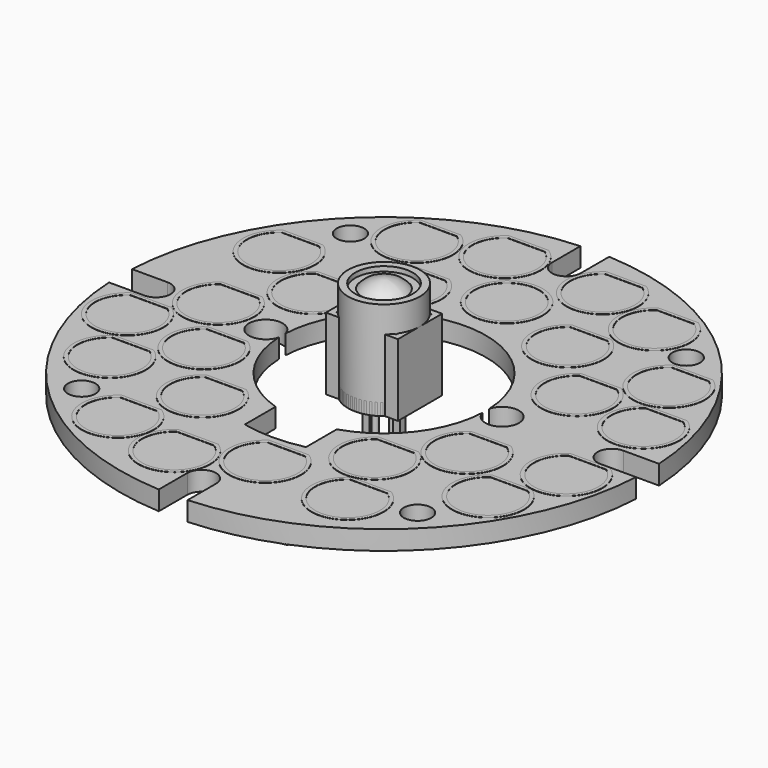
from build123d import *

# Parameters (mm, degrees)
SKETCH_R          = 1.15
PAD_DEPTH         = 1.6
SKETCH001_W       = 4.396296
SKETCH001_H       = 1.855046
SKETCH001_W_2     = 3.996296
SKETCH001_H_2     = 1.455046
SKETCH001_W_3     = 4.588945
SKETCH001_H_3     = 2.181592
SKETCH001_W_4     = 4.188945
SKETCH001_H_4     = 1.781592
SKETCH001_W_5     = 2.480232
SKETCH001_H_5     = 4.551493
SKETCH001_W_6     = 2.080232
SKETCH001_H_6     = 4.151493
SKETCH001_W_7     = 2.034836
SKETCH001_H_7     = 4.348453
SKETCH001_W_8     = 1.634836
SKETCH001_H_8     = 3.948453
SKETCH001_W_9     = 4.626051
SKETCH001_H_9     = 2.828629
SKETCH001_W_10    = 4.226051
SKETCH001_H_10    = 2.428629
SKETCH001_W_11    = 2.947165
SKETCH001_H_11    = 1.699949
SKETCH001_W_12    = 2.547165
SKETCH001_H_12    = 1.299949
PAD001_DEPTH      = 0.02
SKETCH002_R       = 3
SKETCH002_R_2     = 2.7
PAD002_DEPTH      = 0.02
SKETCH004_W       = 2
SKETCH004_H       = 6
POCKET_DEPTH      = 8.601
SKETCH005_W       = 0.6
SKETCH005_H       = 0.6
PAD003_DEPTH      = 3.8
SKETCH007_R       = 0.25
PAD004_DEPTH      = 3.8
SKETCH008_W       = 2
SKETCH008_H       = 1.25
PAD005_DEPTH      = 0.7
SKETCH009_W       = 3.2
SKETCH009_H       = 1.6
PAD006_DEPTH      = 0.7
SKETCH010_W       = 4.55
SKETCH010_H       = 2.5
PAD007_DEPTH      = 1.6
SKETCH011_W       = 3
SKETCH011_H       = 1.3
PAD008_DEPTH      = 0.9
SKETCH012_W       = 6
SKETCH012_H       = 4.6
PAD009_DEPTH      = 6
SKETCH013_W       = 5
SKETCH013_H       = 3.7
POCKET001_DEPTH   = 5
SKETCH014_W       = 0.5
SKETCH014_H       = 0.5
PAD010_DEPTH      = 5
PAD010_DEPTH_BACK = 3.5
SKETCH015_W       = 4.5
SKETCH015_H       = 3.8
PAD011_DEPTH      = 4.5
SKETCH016_W       = 3.7
SKETCH016_H       = 3
POCKET002_DEPTH   = 3.9
SKETCH017_R       = 0.25
PAD012_DEPTH      = 3.5
PAD012_DEPTH_BACK = 3.5


with BuildPart() as pcb:
    # Sketch → Pad (new body)
    with BuildSketch(Plane.XY):
        with BuildLine():
            ThreePointArc((21.967248, 1.2), (15.556349, 15.556349), (1.2, 21.967248))
            Line((1.2, 19), (1.2, 21.967248))
            ThreePointArc((-1.2, 19), (0, 17.8), (1.2, 19))
            Line((-1.2, 21.967248), (-1.2, 19))
            ThreePointArc((-1.2, 21.967248), (-15.556349, 15.556349), (-21.967248, 1.2))
            Line((-21.967248, 1.2), (-19, 1.2))
            ThreePointArc((-19, -1.2), (-17.8, 0), (-19, 1.2))
            Line((-19, -1.2), (-21.967248, -1.2))
            ThreePointArc((-21.967248, -1.2), (-15.556349, -15.556349), (-1.2, -21.967248))
            Line((-1.2, -21.967248), (-1.2, -19))
            ThreePointArc((1.2, -19), (0, -17.8), (-1.2, -19))
            Line((1.2, -19), (1.2, -21.967248))
            ThreePointArc((1.2, -21.967248), (15.556349, -15.556349), (21.967248, -1.2))
            Line((19, -1.2), (21.967248, -1.2))
            ThreePointArc((19, 1.2), (17.8, 0), (19, -1.2))
            Line((21.967248, 1.2), (19, 1.2))
        make_face()
        with Locations((14, 14)):
            Circle(SKETCH_R, mode=Mode.SUBTRACT)
        with Locations((-14, 14)):
            Circle(SKETCH_R, mode=Mode.SUBTRACT)
        with Locations((-14, -14)):
            Circle(SKETCH_R, mode=Mode.SUBTRACT)
        with Locations((14, -14)):
            Circle(SKETCH_R, mode=Mode.SUBTRACT)
        with BuildLine():
            ThreePointArc((2.55, -8.108483), (6.749619, -5.166493), (8.49302, -0.344392))
            ThreePointArc((8.49302, -0.344392), (11.25, 0), (8.49302, 0.344392))
            ThreePointArc((8.49302, 0.344392), (0, 8.5), (-8.49302, 0.344392))
            ThreePointArc((-8.49302, 0.344392), (-11.25, 0), (-8.49302, -0.344392))
            ThreePointArc((-8.49302, -0.344392), (-6.749619, -5.166493), (-2.55, -8.108483))
            Line((-2.55, -11.316249), (-2.55, -8.108483))
            ThreePointArc((-2.55, -11.316249), (0, -11.6), (2.55, -11.316249))
            Line((2.55, -11.316249), (2.55, -8.108483))
        make_face(mode=Mode.SUBTRACT)
    extrude(amount=PAD_DEPTH)

    # Sketch001 → Pad001 (join)
    with BuildSketch(Plane(origin=(0, 0, 0), x_dir=(-1, 0, 0), z_dir=(0, 0, -1))):
        with Locations((0.286577, 16.038799)):
            Rectangle(SKETCH001_W, SKETCH001_H)
        with Locations((0.286577, 16.038799)):
            Rectangle(SKETCH001_W_2, SKETCH001_H_2, mode=Mode.SUBTRACT)
        with Locations((11.456881, -9.813305)):
            Rectangle(SKETCH001_W_3, SKETCH001_H_3)
        with Locations((11.456881, -9.813305)):
            Rectangle(SKETCH001_W_4, SKETCH001_H_4, mode=Mode.SUBTRACT)
        with Locations((-11.09168, -10.643476)):
            Rectangle(SKETCH001_W_3, SKETCH001_H_3)
        with Locations((-11.09168, -10.643476)):
            Rectangle(SKETCH001_W_4, SKETCH001_H_4, mode=Mode.SUBTRACT)
        with Locations((-5.309897, -14.41509)):
            Rectangle(SKETCH001_W_3, SKETCH001_H_3)
        with Locations((-5.309897, -14.41509)):
            Rectangle(SKETCH001_W_4, SKETCH001_H_4, mode=Mode.SUBTRACT)
        with Locations((6.973172, -16.658799)):
            Rectangle(SKETCH001_W_5, SKETCH001_H_5)
        with Locations((6.973172, -16.6588)):
            Rectangle(SKETCH001_W_6, SKETCH001_H_6, mode=Mode.SUBTRACT)
        with Locations((-14.783461, 5.644056)):
            Rectangle(SKETCH001_W_7, SKETCH001_H_7)
        with Locations((-14.783461, 5.644056)):
            Rectangle(SKETCH001_W_8, SKETCH001_H_8, mode=Mode.SUBTRACT)
        with Locations((-14.119951, 0.332207)):
            Rectangle(SKETCH001_W_9, SKETCH001_H_9)
        with Locations((-14.119951, 0.332207)):
            Rectangle(SKETCH001_W_10, SKETCH001_H_10, mode=Mode.SUBTRACT)
        with Locations((-14.39341, -5.2375)):
            Rectangle(SKETCH001_W_11, SKETCH001_H_11)
        with Locations((-14.393409, -5.2375)):
            Rectangle(SKETCH001_W_12, SKETCH001_H_12, mode=Mode.SUBTRACT)
        Polygon((-13.685606, 12.266267), (-11.262953, 13.709595), (-8.136082, 8.461084), (-10.558734, 7.017756), align=None)
        Polygon((-11.332409, 13.435412), (-8.410264, 8.530539), (-10.489279, 7.291938), (-13.411424, 12.196811), align=None, mode=Mode.SUBTRACT)
        Polygon((16.553494, 6.175916), (20.236398, 7.111979), (21.320261, 2.847563), (17.637356, 1.9115), align=None)
        Polygon((20.091828, 6.868875), (21.077157, 2.992134), (17.781927, 2.154604), (16.796597, 6.031345), align=None, mode=Mode.SUBTRACT)
        Polygon((-7.429454, -16.00829), (-1.551928, -17.214393), (-2.456506, -21.622538), (-8.334032, -20.416435), align=None)
        Polygon((-1.788049, -17.370107), (-2.61222, -21.386417), (-8.097911, -20.260721), (-7.27374, -16.244411), align=None, mode=Mode.SUBTRACT)
    extrude(amount=PAD001_DEPTH)

    # Sketch002 → Pad002 (join)
    with BuildSketch(Plane.XY.offset(1.6)):
        with Locations((0, 12.792821)):
            Circle(SKETCH002_R)
        with Locations((0, 12.792821)):
            Circle(SKETCH002_R_2, mode=Mode.SUBTRACT)
        with BuildLine():
            ThreePointArc((-5.728671, 20.178429), (-4.070359, 14.678429), (-2.412047, 20.178429))
            Line((-5.728671, 20.178429), (-2.412047, 20.178429))
        make_face()
        with BuildLine():
            ThreePointArc((-5.635607, 19.878429), (-4.070359, 14.978429), (-2.505111, 19.878429))
            Line((-5.635607, 19.878429), (-2.505111, 19.878429))
        make_face(mode=Mode.SUBTRACT)
        with BuildLine():
            ThreePointArc((2.412047, 20.178429), (4.070359, 14.678429), (5.728671, 20.178429))
            Line((2.412047, 20.178429), (5.728671, 20.178429))
        make_face()
        with BuildLine():
            ThreePointArc((2.505111, 19.878429), (4.070359, 14.978429), (5.635607, 19.878429))
            Line((2.505111, 19.878429), (5.635607, 19.878429))
        make_face(mode=Mode.SUBTRACT)
        with BuildLine():
            ThreePointArc((0.099237, -12.085744), (1.757549, -17.585744), (3.415861, -12.085744))
            Line((0.099237, -12.085744), (3.415861, -12.085744))
        make_face()
        with BuildLine():
            ThreePointArc((0.192301, -12.385744), (1.757549, -17.285744), (3.322797, -12.385744))
            Line((0.192301, -12.385744), (3.322797, -12.385744))
        make_face(mode=Mode.SUBTRACT)
        with BuildLine():
            ThreePointArc((8.2416, 18.302339), (9.899912, 12.802339), (11.558224, 18.302339))
            Line((8.2416, 18.302339), (11.558224, 18.302339))
        make_face()
        with BuildLine():
            ThreePointArc((8.334664, 18.002339), (9.899912, 13.102339), (11.46516, 18.002339))
            Line((8.334664, 18.002339), (11.46516, 18.002339))
        make_face(mode=Mode.SUBTRACT)
        with BuildLine():
            ThreePointArc((-11.558224, 18.302339), (-9.899912, 12.802339), (-8.2416, 18.302339))
            Line((-11.558224, 18.302339), (-8.2416, 18.302339))
        make_face()
        with BuildLine():
            ThreePointArc((-11.46516, 18.002339), (-9.899912, 13.102339), (-8.334664, 18.002339))
            Line((-11.46516, 18.002339), (-8.334664, 18.002339))
        make_face(mode=Mode.SUBTRACT)
        with BuildLine():
            ThreePointArc((-8.225818, 12.956867), (-6.567506, 7.456867), (-4.909193, 12.956867))
            Line((-8.225818, 12.956867), (-4.909193, 12.956867))
        make_face()
        with BuildLine():
            ThreePointArc((-8.132753, 12.656867), (-6.567506, 7.756867), (-5.002258, 12.656867))
            Line((-8.132753, 12.656867), (-5.002258, 12.656867))
        make_face(mode=Mode.SUBTRACT)
        with BuildLine():
            ThreePointArc((5.319671, 12.915736), (6.977983, 7.415736), (8.636295, 12.915736))
            Line((5.319671, 12.915736), (8.636295, 12.915736))
        make_face()
        with BuildLine():
            ThreePointArc((5.412735, 12.615736), (6.977983, 7.715736), (8.543231, 12.615736))
            Line((5.412735, 12.615736), (8.543231, 12.615736))
        make_face(mode=Mode.SUBTRACT)
        with BuildLine():
            ThreePointArc((-17.676676, 11.601031), (-16.018364, 6.101031), (-14.360052, 11.601031))
            Line((-17.676676, 11.601031), (-14.360052, 11.601031))
        make_face()
        with BuildLine():
            ThreePointArc((-17.583612, 11.301031), (-16.018364, 6.401031), (-14.453116, 11.301031))
            Line((-17.583612, 11.301031), (-14.453116, 11.301031))
        make_face(mode=Mode.SUBTRACT)
        with BuildLine():
            ThreePointArc((-12.32369, 8.449555), (-10.665378, 2.949555), (-9.007066, 8.449555))
            Line((-12.32369, 8.449555), (-9.007066, 8.449555))
        make_face()
        with BuildLine():
            ThreePointArc((-12.230626, 8.149555), (-10.665378, 3.249555), (-9.10013, 8.149555))
            Line((-12.230626, 8.149555), (-9.10013, 8.149555))
        make_face(mode=Mode.SUBTRACT)
        with BuildLine():
            ThreePointArc((-16.201031, 3.414278), (-14.542719, -2.085722), (-12.884407, 3.414278))
            Line((-16.201031, 3.414278), (-12.884407, 3.414278))
        make_face()
        with BuildLine():
            ThreePointArc((-16.107967, 3.114278), (-14.542719, -1.785722), (-12.977471, 3.114278))
            Line((-16.107967, 3.114278), (-12.977471, 3.114278))
        make_face(mode=Mode.SUBTRACT)
        with BuildLine():
            ThreePointArc((14.017337, 12.592072), (15.675649, 7.092072), (17.333961, 12.592072))
            Line((14.017337, 12.592072), (17.333961, 12.592072))
        make_face()
        with BuildLine():
            ThreePointArc((14.110401, 12.292072), (15.675649, 7.392072), (17.240897, 12.292072))
            Line((14.110401, 12.292072), (17.240897, 12.292072))
        make_face(mode=Mode.SUBTRACT)
        with BuildLine():
            ThreePointArc((10.086573, 7.940279), (11.744885, 2.440279), (13.403197, 7.940279))
            Line((10.086573, 7.940279), (13.403197, 7.940279))
        make_face()
        with BuildLine():
            ThreePointArc((10.179637, 7.640279), (11.744885, 2.740279), (13.310133, 7.640279))
            Line((10.179637, 7.640279), (13.310133, 7.640279))
        make_face(mode=Mode.SUBTRACT)
        with BuildLine():
            ThreePointArc((16.319975, 7.056439), (17.978287, 1.556439), (19.636599, 7.056439))
            Line((16.319975, 7.056439), (19.636599, 7.056439))
        make_face()
        with BuildLine():
            ThreePointArc((16.413039, 6.756439), (17.978287, 1.856439), (19.543535, 6.756439))
            Line((16.413039, 6.756439), (19.543535, 6.756439))
        make_face(mode=Mode.SUBTRACT)
        with BuildLine():
            ThreePointArc((-19.88258, -1.449865), (-18.224268, -6.949865), (-16.565956, -1.449865))
            Line((-19.88258, -1.449865), (-16.565956, -1.449865))
        make_face()
        with BuildLine():
            ThreePointArc((-19.789516, -1.749865), (-18.224268, -6.649865), (-16.65902, -1.749865))
            Line((-19.789516, -1.749865), (-16.65902, -1.749865))
        make_face(mode=Mode.SUBTRACT)
        with BuildLine():
            ThreePointArc((-13.000693, -2.088284), (-11.342381, -7.588284), (-9.684069, -2.088284))
            Line((-13.000693, -2.088284), (-9.684069, -2.088284))
        make_face()
        with BuildLine():
            ThreePointArc((-12.907629, -2.388284), (-11.342381, -7.288284), (-9.777133, -2.388284))
            Line((-12.907629, -2.388284), (-9.777133, -2.388284))
        make_face(mode=Mode.SUBTRACT)
        with BuildLine():
            ThreePointArc((-17.035859, -6.859421), (-15.377547, -12.359421), (-13.719235, -6.859421))
            Line((-17.035859, -6.859421), (-13.719235, -6.859421))
        make_face()
        with BuildLine():
            ThreePointArc((-16.942795, -7.159421), (-15.377547, -12.059421), (-13.812299, -7.159421))
            Line((-16.942795, -7.159421), (-13.812299, -7.159421))
        make_face(mode=Mode.SUBTRACT)
        with BuildLine():
            ThreePointArc((-8.841371, -7.439953), (-7.183059, -12.939953), (-5.524747, -7.439953))
            Line((-8.841371, -7.439953), (-5.524747, -7.439953))
        make_face()
        with BuildLine():
            ThreePointArc((-8.748307, -7.739953), (-7.183059, -12.639953), (-5.617811, -7.739953))
            Line((-8.748307, -7.739953), (-5.617811, -7.739953))
        make_face(mode=Mode.SUBTRACT)
        with BuildLine():
            ThreePointArc((-11.354735, -13.118345), (-9.696423, -18.618345), (-8.038111, -13.118345))
            Line((-11.354735, -13.118345), (-8.038111, -13.118345))
        make_face()
        with BuildLine():
            ThreePointArc((-11.261671, -13.418345), (-9.696423, -18.318345), (-8.131175, -13.418345))
            Line((-11.261671, -13.418345), (-8.131175, -13.418345))
        make_face(mode=Mode.SUBTRACT)
        with BuildLine():
            ThreePointArc((-5.455162, -14.596434), (-3.79685, -20.096434), (-2.138538, -14.596434))
            Line((-5.455162, -14.596434), (-2.138538, -14.596434))
        make_face()
        with BuildLine():
            ThreePointArc((-5.362098, -14.896434), (-3.79685, -19.796434), (-2.231602, -14.896434))
            Line((-5.362098, -14.896434), (-2.231602, -14.896434))
        make_face(mode=Mode.SUBTRACT)
        with BuildLine():
            ThreePointArc((16.574364, -1.299725), (18.232676, -6.799725), (19.890988, -1.299725))
            Line((16.574364, -1.299725), (19.890988, -1.299725))
        make_face()
        with BuildLine():
            ThreePointArc((16.667428, -1.599725), (18.232676, -6.499725), (19.797924, -1.599725))
            Line((16.667428, -1.599725), (19.797924, -1.599725))
        make_face(mode=Mode.SUBTRACT)
        with BuildLine():
            ThreePointArc((9.576479, -2.897536), (11.234791, -8.397536), (12.893103, -2.897536))
            Line((9.576479, -2.897536), (12.893103, -2.897536))
        make_face()
        with BuildLine():
            ThreePointArc((9.669543, -3.197536), (11.234791, -8.097536), (12.800039, -3.197536))
            Line((9.669543, -3.197536), (12.800039, -3.197536))
        make_face(mode=Mode.SUBTRACT)
        with BuildLine():
            ThreePointArc((14.49173, -6.845838), (16.150042, -12.345838), (17.808354, -6.845838))
            Line((14.49173, -6.845838), (17.808354, -6.845838))
        make_face()
        with BuildLine():
            ThreePointArc((14.584794, -7.145838), (16.150042, -12.045838), (17.71529, -7.145838))
            Line((14.584794, -7.145838), (17.71529, -7.145838))
        make_face(mode=Mode.SUBTRACT)
        with BuildLine():
            ThreePointArc((5.397257, -7.282907), (7.055569, -12.782907), (8.713881, -7.282907))
            Line((5.397257, -7.282907), (8.713881, -7.282907))
        make_face()
        with BuildLine():
            ThreePointArc((5.490321, -7.582907), (7.055569, -12.482907), (8.620817, -7.582907))
            Line((5.490321, -7.582907), (8.620817, -7.582907))
        make_face(mode=Mode.SUBTRACT)
        with BuildLine():
            ThreePointArc((7.555427, -12.814117), (9.213739, -18.314117), (10.872051, -12.814117))
            Line((7.555427, -12.814117), (10.872051, -12.814117))
        make_face()
        with BuildLine():
            ThreePointArc((7.648491, -13.114117), (9.213739, -18.014117), (10.778987, -13.114117))
            Line((7.648491, -13.114117), (10.778987, -13.114117))
        make_face(mode=Mode.SUBTRACT)
    extrude(amount=PAD002_DEPTH)


with BuildPart() as led_5mm:
    # Sketch003 → Revolution (revolve)
    with BuildSketch(Plane.XZ):
        with BuildLine():
            Line((0, 0), (3, 0))
            Line((3, 0), (3, 1))
            Line((3, 1), (2.5, 1))
            Line((2.5, 1), (2.5, 6.1))
            ThreePointArc((2.5, 6.1), (1.767767, 7.867767), (0, 8.6))
            Line((0, 8.6), (0, 0))
        make_face()
    revolve(axis=Axis((0, 0, 0), (0, 0, 1)))

    # Sketch004 → Pocket (cut, through all)
    with BuildSketch(Plane.XY):
        with Locations((3.5, 0)):
            Rectangle(SKETCH004_W, SKETCH004_H)
    extrude(amount=POCKET_DEPTH, mode=Mode.SUBTRACT)

    # Sketch005 → Pad003 (join)
    with BuildSketch(Plane.XY):
        with Locations((-1.27, 0)):
            Rectangle(SKETCH005_W, SKETCH005_H)
        with Locations((1.27, 0)):
            Rectangle(SKETCH005_W, SKETCH005_H)
    extrude(amount=-PAD003_DEPTH)


with BuildPart() as obj1:
    # Sketch006 → Revolution001 (revolve)
    with BuildSketch(Plane.XZ):
        Polygon((0, 0), (0, 7.8), (2.4, 7.8), (2.4, 8.2), (3, 8.2), (3, 0), align=None)
    revolve(axis=Axis((0, 0, 0), (0, 0, 1)))

    # Sketch007 → Pad004 (new body)
    with BuildSketch(Plane.XY):
        with Locations((-1.27, 0)):
            Circle(SKETCH007_R)
        with Locations((1.27, 0)):
            Circle(SKETCH007_R)
    extrude(amount=-PAD004_DEPTH)


with BuildPart() as r0805:
    # Sketch008 → Pad005 (new body)
    with BuildSketch(Plane.XY):
        Rectangle(SKETCH008_W, SKETCH008_H)
    extrude(amount=PAD005_DEPTH)


with BuildPart() as r1206:
    # Sketch009 → Pad006 (new body)
    with BuildSketch(Plane.XY):
        Rectangle(SKETCH009_W, SKETCH009_H)
    extrude(amount=PAD006_DEPTH)


with BuildPart() as q2:
    # Sketch010 → Pad007 (new body)
    with BuildSketch(Plane.XY):
        Rectangle(SKETCH010_W, SKETCH010_H)
    extrude(amount=PAD007_DEPTH)


with BuildPart() as q1:
    # Sketch011 → Pad008 (new body)
    with BuildSketch(Plane.XY):
        Rectangle(SKETCH011_W, SKETCH011_H)
    extrude(amount=PAD008_DEPTH)


with BuildPart() as obj2:
    # Sketch012 → Pad009 (new body)
    with BuildSketch(Plane.XY):
        Rectangle(SKETCH012_W, SKETCH012_H)
    extrude(amount=PAD009_DEPTH)

    # Sketch013 → Pocket001 (cut)
    with BuildSketch(Plane.XY.offset(6)):
        Rectangle(SKETCH013_W, SKETCH013_H)
    extrude(amount=-POCKET001_DEPTH, mode=Mode.SUBTRACT)

    # Sketch014 → Pad010 (join, two sides)
    with BuildSketch(Plane.XY) as pad010_sk:
        with Locations((-1.27, 0)):
            Rectangle(SKETCH014_W, SKETCH014_H)
        with Locations((1.27, 0)):
            Rectangle(SKETCH014_W, SKETCH014_H)
    extrude(amount=PAD010_DEPTH)
    extrude(pad010_sk.sketch, amount=-PAD010_DEPTH_BACK)


with BuildPart() as obj3:
    # Sketch015 → Pad011 (new body)
    with BuildSketch(Plane.XY):
        Rectangle(SKETCH015_W, SKETCH015_H)
    extrude(amount=PAD011_DEPTH)

    # Sketch016 → Pocket002 (cut)
    with BuildSketch(Plane.XY.offset(4.5)):
        Rectangle(SKETCH016_W, SKETCH016_H)
    extrude(amount=-POCKET002_DEPTH, mode=Mode.SUBTRACT)

    # Sketch017 → Pad012 (join, two sides)
    with BuildSketch(Plane.XY) as pad012_sk:
        with Locations((-0.73, 0)):
            Circle(SKETCH017_R)
        with Locations((0.73, 0)):
            Circle(SKETCH017_R)
    extrude(amount=PAD012_DEPTH)
    extrude(pad012_sk.sketch, amount=-PAD012_DEPTH_BACK)


solid = Compound([pcb.part, led_5mm.part, obj1.part, r0805.part, r1206.part, q2.part, q1.part, obj2.part, obj3.part])
